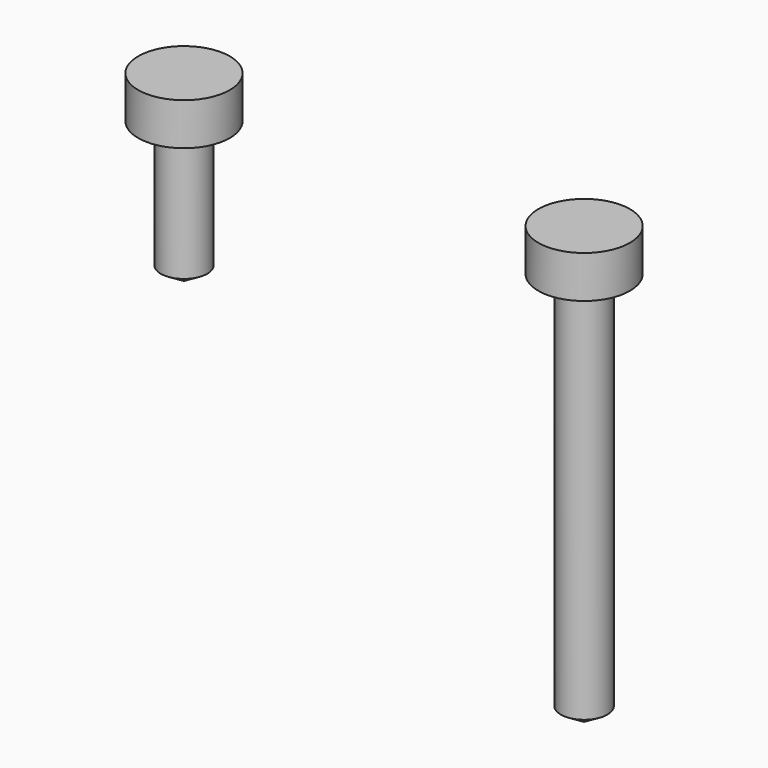
from build123d import *

# Parameters (mm, degrees)
F0_W           = 59.422634542
F0_H           = 58.0189451575
F1_DEPTH       = 78.994
F2_D           = 3.3
F2_DEPTH       = 12
F2_CBORE_D     = 6.5
F2_CBORE_DEPTH = 3
F2_TIP         = 0.9914200214
F3_D           = 3.3
F3_DEPTH       = 30
F3_CBORE_D     = 6.5
F3_CBORE_DEPTH = 3
F3_TIP         = 0.9914200214
F4_DEPTH       = 78.994


with BuildPart() as f1:
    # F0 (on Top) → F1 (new body)
    with BuildSketch(Plane.XY):
        Rectangle(F0_W, F0_H)
    extrude(amount=-F1_DEPTH)

    # F2
    with Locations(Plane.XY):
        with Locations((-14.0368444845, 13.8028943911)):
            CounterBoreHole(F2_D / 2, F2_CBORE_D / 2, F2_CBORE_DEPTH, depth=F2_DEPTH)
            with Locations((0, 0, -(F2_DEPTH + F2_TIP / 2))):  # 118° drill point
                Cone(0, F2_D / 2, F2_TIP, mode=Mode.SUBTRACT)

    # F3
    with Locations(Plane.XY):
        with Locations((14.7386826575, 13.3350007236)):
            CounterBoreHole(F3_D / 2, F3_CBORE_D / 2, F3_CBORE_DEPTH, depth=F3_DEPTH)
            with Locations((0, 0, -(F3_DEPTH + F3_TIP / 2))):  # 118° drill point
                Cone(0, F3_D / 2, F3_TIP, mode=Mode.SUBTRACT)


with BuildPart() as f4:
    # F4 (new, through all): a face of the model
    f4_faces = [f1.part.faces().sort_by_distance(p)[0] for p in [
        (0, 0, -78.994),
    ]]
    extrude(f4_faces, amount=-F4_DEPTH)

    # F5: cut F1
    add(f1.part, mode=Mode.SUBTRACT)


solid = f4.part
